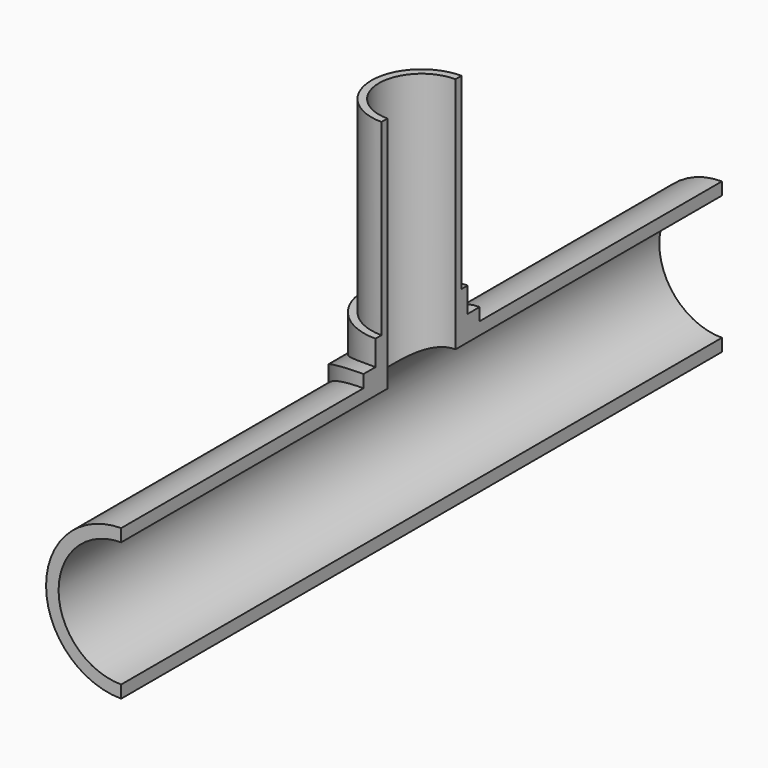
from build123d import *

# Parameters (mm, degrees)
BOX003_W               = 500
BOX003_H               = 1700
BOX003_DEPTH           = 1000
CYLINDER013_R          = 125
CYLINDER013_DEPTH      = 1500
CYLINDER013_ROLL_ANGLE = 90
BOX002_W               = 500
BOX002_H               = 500
BOX002_DEPTH           = 300
CYLINDER012_R          = 150
CYLINDER012_DEPTH      = 140
CYLINDER012_ROLL_ANGLE = 90
BOX001_W               = 500
BOX001_H               = 500
BOX001_DEPTH           = 300
CYLINDER011_R          = 150
CYLINDER011_DEPTH      = 80
CYLINDER011_ROLL_ANGLE = 90
CYLINDER010_R          = 150
CYLINDER010_DEPTH      = 80
CYLINDER010_ROLL_ANGLE = 90
CYLINDER009_R          = 150
CYLINDER009_DEPTH      = 100
CYLINDER009_ROLL_ANGLE = 90
CYLINDER007_R          = 125
CYLINDER007_DEPTH      = 1500
CYLINDER007_ROLL_ANGLE = 90
CYLINDER006_R          = 85
CYLINDER006_DEPTH      = 600
CYLINDER002_R          = 115
CYLINDER002_DEPTH      = 225
CYLINDER001_R          = 150
CYLINDER001_DEPTH      = 1500
CYLINDER001_ROLL_ANGLE = 90
CYLINDER_R             = 100
CYLINDER_DEPTH         = 600
BOX_W                  = 500
BOX_H                  = 500
BOX_DEPTH              = 500
CYLINDER004_R          = 145
CYLINDER004_DEPTH      = 600
CYLINDER005_R          = 300
CYLINDER005_DEPTH      = 600
CYLINDER003_R          = 175
CYLINDER003_DEPTH      = 400
CYLINDER003_ROLL_ANGLE = 90
CYLINDER008_R          = 150
CYLINDER008_DEPTH      = 100
CYLINDER008_ROLL_ANGLE = 90


with BuildPart() as cube003:
    # Box003 → Box003 (new body)
    with BuildSketch(Plane(origin=(0, -896, -320), x_dir=(1, 0, 0), z_dir=(0, 0, 1))):
        with Locations((250, 850)):
            Rectangle(BOX003_W, BOX003_H)
    extrude(amount=BOX003_DEPTH)


with BuildPart() as cylinder013:
    # Cylinder013 → Cylinder013 (new body)
    with BuildSketch(Plane.XY):
        Circle(CYLINDER013_R)
    extrude(amount=CYLINDER013_DEPTH)


with BuildPart() as cylinder013_1:
    # Cylinder013 roll: moved
    add(cylinder013.part.rotate(Axis((0, 0, 0), (1, 0, 0)), CYLINDER013_ROLL_ANGLE))


with BuildPart() as cylinder013_2:
    # Cylinder013 placement: moved
    add(cylinder013_1.part.moved(Location((0, 750, 0))))


with BuildPart() as cube002:
    # Box002 → Box002 (new body)
    with BuildSketch(Plane(origin=(-250, -250, 38), x_dir=(1, 0, 0), z_dir=(0, 0, 1))):
        with Locations((250, 250)):
            Rectangle(BOX002_W, BOX002_H)
    extrude(amount=BOX002_DEPTH)


with BuildPart() as cut006:
    # Cylinder012 → Cylinder012 (new body)
    with BuildSketch(Plane.XY):
        Circle(CYLINDER012_R)
    extrude(amount=CYLINDER012_DEPTH)


with BuildPart() as cut006_1:
    # Cylinder012 roll: moved
    add(cut006.part.rotate(Axis((0, 0, 0), (1, 0, 0)), CYLINDER012_ROLL_ANGLE))


with BuildPart() as cut006_2:
    # Cylinder012 placement: moved
    add(cut006_1.part.moved(Location((0, 70, 0))))

    # Cut006: cut Cube002
    add(cube002.part, mode=Mode.SUBTRACT)


with BuildPart() as cube001:
    # Box001 → Box001 (new body)
    with BuildSketch(Plane(origin=(-250, -250, 80), x_dir=(1, 0, 0), z_dir=(0, 0, 1))):
        with Locations((250, 250)):
            Rectangle(BOX001_W, BOX001_H)
    extrude(amount=BOX001_DEPTH)


with BuildPart() as cylinder011:
    # Cylinder011 → Cylinder011 (new body)
    with BuildSketch(Plane.XY):
        Circle(CYLINDER011_R)
    extrude(amount=CYLINDER011_DEPTH)


with BuildPart() as cylinder011_1:
    # Cylinder011 roll: moved
    add(cylinder011.part.rotate(Axis((0, 0, 0), (1, 0, 0)), CYLINDER011_ROLL_ANGLE))


with BuildPart() as cylinder011_2:
    # Cylinder011 placement: moved
    add(cylinder011_1.part.moved(Location((0, 150, 0))))


with BuildPart() as cut005:
    # Cylinder010 → Cylinder010 (new body)
    with BuildSketch(Plane.XY):
        Circle(CYLINDER010_R)
    extrude(amount=CYLINDER010_DEPTH)


with BuildPart() as cut005_1:
    # Cylinder010 roll: moved
    add(cut005.part.rotate(Axis((0, 0, 0), (1, 0, 0)), CYLINDER010_ROLL_ANGLE))


with BuildPart() as cut005_2:
    # Cylinder010 placement: moved
    add(cut005_1.part.moved(Location((0, -70, 0))))

    # Fusion002: union Cylinder011
    add(cylinder011_2.part)

    # Cut005: cut Cube001
    add(cube001.part, mode=Mode.SUBTRACT)


with BuildPart() as cylinder009:
    # Cylinder009 → Cylinder009 (new body)
    with BuildSketch(Plane.XY):
        Circle(CYLINDER009_R)
    extrude(amount=CYLINDER009_DEPTH)


with BuildPart() as cylinder009_1:
    # Cylinder009 roll: moved
    add(cylinder009.part.rotate(Axis((0, 0, 0), (1, 0, 0)), CYLINDER009_ROLL_ANGLE))


with BuildPart() as cylinder009_2:
    # Cylinder009 placement: moved
    add(cylinder009_1.part.moved(Location((0, 250, 0))))


with BuildPart() as cylinder007:
    # Cylinder007 → Cylinder007 (new body)
    with BuildSketch(Plane.XY):
        Circle(CYLINDER007_R)
    extrude(amount=CYLINDER007_DEPTH)


with BuildPart() as cylinder007_1:
    # Cylinder007 roll: moved
    add(cylinder007.part.rotate(Axis((0, 0, 0), (1, 0, 0)), CYLINDER007_ROLL_ANGLE))


with BuildPart() as cylinder007_2:
    # Cylinder007 placement: moved
    add(cylinder007_1.part.moved(Location((0, 750, 0))))


with BuildPart() as cylinder006:
    # Cylinder006 → Cylinder006 (new body)
    with BuildSketch(Plane.XY):
        Circle(CYLINDER006_R)
    extrude(amount=CYLINDER006_DEPTH)


with BuildPart() as cylinder002:
    # Cylinder002 → Cylinder002 (new body)
    with BuildSketch(Plane.XY):
        Circle(CYLINDER002_R)
    extrude(amount=CYLINDER002_DEPTH)


with BuildPart() as cylinder001:
    # Cylinder001 → Cylinder001 (new body)
    with BuildSketch(Plane.XY):
        Circle(CYLINDER001_R)
    extrude(amount=CYLINDER001_DEPTH)


with BuildPart() as cylinder001_1:
    # Cylinder001 roll: moved
    add(cylinder001.part.rotate(Axis((0, 0, 0), (1, 0, 0)), CYLINDER001_ROLL_ANGLE))


with BuildPart() as cylinder001_2:
    # Cylinder001 placement: moved
    add(cylinder001_1.part.moved(Location((0, 750, 0))))


with BuildPart() as cylinder:
    # Cylinder → Cylinder (new body)
    with BuildSketch(Plane.XY):
        Circle(CYLINDER_R)
    extrude(amount=CYLINDER_DEPTH)


with BuildPart() as cube:
    # Box → Box (new body)
    with BuildSketch(Plane(origin=(-226, -279, -480), x_dir=(1, 0, 0), z_dir=(0, 0, 1))):
        with Locations((250, 250)):
            Rectangle(BOX_W, BOX_H)
    extrude(amount=BOX_DEPTH)


with BuildPart() as cylinder004:
    # Cylinder004 → Cylinder004 (new body)
    with BuildSketch(Plane.XY):
        Circle(CYLINDER004_R)
    extrude(amount=CYLINDER004_DEPTH)


with BuildPart() as cut:
    # Cylinder005 → Cylinder005 (new body)
    with BuildSketch(Plane.XY):
        Circle(CYLINDER005_R)
    extrude(amount=CYLINDER005_DEPTH)

    # Cut: cut Cylinder004
    add(cylinder004.part, mode=Mode.SUBTRACT)


with BuildPart() as cut004:
    # Cylinder003 → Cylinder003 (new body)
    with BuildSketch(Plane.XY):
        Circle(CYLINDER003_R)
    extrude(amount=CYLINDER003_DEPTH)


with BuildPart() as cut004_1:
    # Cylinder003 roll: moved
    add(cut004.part.rotate(Axis((0, 0, 0), (1, 0, 0)), CYLINDER003_ROLL_ANGLE))


with BuildPart() as cut004_2:
    # Cylinder003 placement: moved
    add(cut004_1.part.moved(Location((0, 200, 0))))

    # Cut001: cut Cut
    add(cut.part, mode=Mode.SUBTRACT)

    # Cut002: cut Cube
    add(cube.part, mode=Mode.SUBTRACT)

    # Fusion: union Cylinder002, Cylinder001, Cylinder
    add(cylinder002.part)
    add(cylinder001_2.part)
    add(cylinder.part)

    # Cut003: cut Cylinder006
    add(cylinder006.part, mode=Mode.SUBTRACT)

    # Cut004: cut Cylinder007
    add(cylinder007_2.part, mode=Mode.SUBTRACT)


with BuildPart() as cut008:
    # Cylinder008 → Cylinder008 (new body)
    with BuildSketch(Plane.XY):
        Circle(CYLINDER008_R)
    extrude(amount=CYLINDER008_DEPTH)


with BuildPart() as cut008_1:
    # Cylinder008 roll: moved
    add(cut008.part.rotate(Axis((0, 0, 0), (1, 0, 0)), CYLINDER008_ROLL_ANGLE))


with BuildPart() as cut008_2:
    # Cylinder008 placement: moved
    add(cut008_1.part.moved(Location((0, -150, 0))))

    # Fusion001: union Cylinder009, Cut004
    add(cylinder009_2.part)
    add(cut004_2.part)

    # Fusion003: union Cut005
    add(cut005_2.part)

    # Fusion004: union Cut006
    add(cut006_2.part)

    # Cut007: cut Cylinder013
    add(cylinder013_2.part, mode=Mode.SUBTRACT)

    # Cut008: cut Cube003
    add(cube003.part, mode=Mode.SUBTRACT)


solid = cut008_2.part
